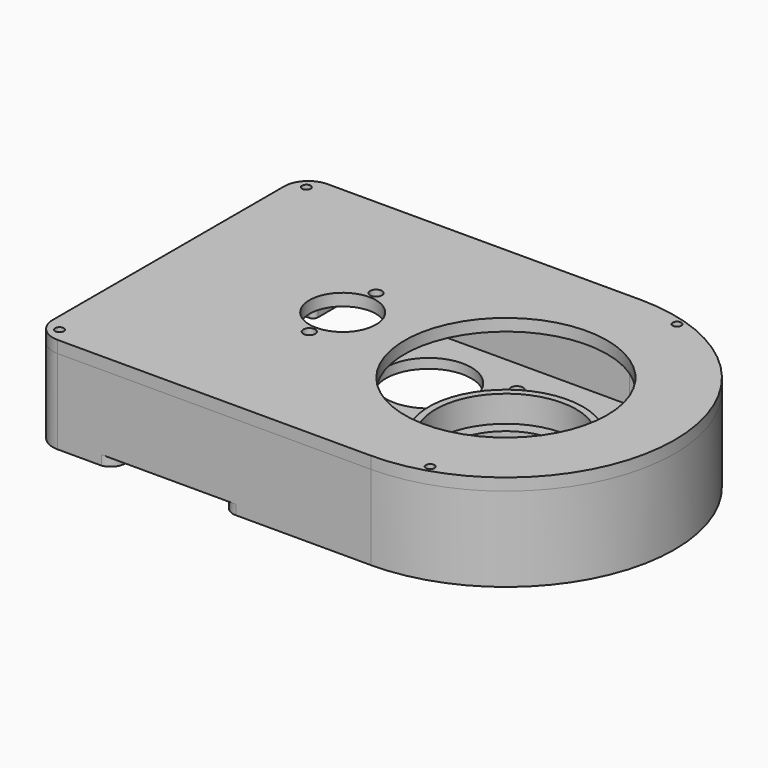
from build123d import *

# Parameters (mm, degrees)
F0_R      = 15.24
F1_DEPTH  = 22.225
F2_R      = 15.24
F3_DEPTH  = 19.685
F4_R      = 20.32
F4_R_2    = 15.24
F5_DEPTH  = 9.525
F6_R      = 18.5293
F6_R_2    = 15.24
F7_DEPTH  = 6.985
F8_R      = 1.1303
F9_DEPTH  = 7.62
F10_R     = 8.5
F10_R_2   = 1.75
F10_R_3   = 11.25
F10_R_4   = 1.575
F10_R_5   = 1.1303
F11_DEPTH = 25.4
F12_R     = 1.1303
F12_R_2   = 1.575
F12_R_3   = 8.75
F12_R_4   = 26.67
F13_DEPTH = 3.175
F14_R     = 2.159
F15_DEPTH = 3.81
F16_R     = 2.159
F17_DEPTH = 22.225
F20_R     = 1.1303
F21_DEPTH = 2.54
F22_R     = 1.1303
F22_R_2   = 2.8575
F23_DEPTH = 2.54


with BuildPart() as f1:
    # F0 (on Top) → F1 (new body)
    with BuildSketch(Plane.XY):
        with BuildLine():
            ThreePointArc((0, 6.35), (1.8598719395, 1.8598719395), (6.35, 0))
            Line((6.35, 0), (88.9, 0))
            ThreePointArc((88.9, 0), (133.35, 44.45), (88.9, 88.9))
            Line((88.9, 88.9), (6.35, 88.9))
            ThreePointArc((6.35, 88.9), (1.8598719395, 87.0401280605), (0, 82.55))
            Line((0, 82.55), (0, 6.35))
        make_face()
        with Locations((88.9, 44.45)):
            Circle(F0_R, mode=Mode.SUBTRACT)
        with BuildLine():
            ThreePointArc((0, 6.35), (1.8598719395, 1.8598719395), (6.35, 0))
            Line((6.35, 0), (88.9, 0))
            ThreePointArc((88.9, 0), (133.35, 44.45), (88.9, 88.9))
            Line((88.9, 88.9), (6.35, 88.9))
            ThreePointArc((6.35, 88.9), (1.8598719395, 87.0401280605), (0, 82.55))
            Line((0, 82.55), (0, 6.35))
        make_face()
        with Locations((88.9, 44.45)):
            Circle(F0_R, mode=Mode.SUBTRACT)
    extrude(amount=F1_DEPTH)

    # F2 (on face) → F3 (cut)
    with BuildSketch(Plane.XY.offset(22.225)):
        with BuildLine():
            Line((88.9, 85.09), (10.414, 85.09))
            ThreePointArc((10.414, 85.09), (5.744266817, 83.155733183), (3.81, 78.486))
            Line((3.81, 78.486), (3.81, 10.414))
            ThreePointArc((3.81, 10.414), (5.744266817, 5.744266817), (10.414, 3.81))
            Line((10.414, 3.81), (88.9, 3.81))
            ThreePointArc((88.9, 3.81), (129.54, 44.45), (88.9, 85.09))
        make_face()
        with Locations((88.9, 44.45)):
            Circle(F2_R, mode=Mode.SUBTRACT)
        with Locations((88.9, 44.45)):
            Circle(F2_R)
    extrude(amount=-F3_DEPTH, mode=Mode.SUBTRACT)

    # F4 (on face) → F5 (join)
    with BuildSketch(Plane.XY.offset(2.54)):
        with Locations((88.9, 44.45)):
            Circle(F4_R)
        with Locations((88.9, 44.45)):
            Circle(F4_R_2, mode=Mode.SUBTRACT)
        with Locations((88.9, 44.45)):
            Circle(F4_R)
        with Locations((88.9, 44.45)):
            Circle(F4_R_2, mode=Mode.SUBTRACT)
    extrude(amount=F5_DEPTH)

    # F6 (on face) → F7 (cut)
    with BuildSketch(Plane.XY.offset(12.065)):
        with Locations((88.9, 44.45)):
            Circle(F6_R)
        with Locations((88.9, 44.45)):
            Circle(F6_R_2, mode=Mode.SUBTRACT)
    extrude(amount=-F7_DEPTH, mode=Mode.SUBTRACT)

    # F8 (on face) → F9 (cut)
    with BuildSketch(Plane.XY.offset(22.225)):
        with Locations((3.8020693783, 85.0979306217)):
            Circle(F8_R)
        with Locations((3.8020693783, 3.8020693783)):
            Circle(F8_R)
        with Locations((101.4627529296, 3.8020693783)):
            Circle(F8_R)
        with Locations((101.4627529296, 85.0979306217)):
            Circle(F8_R)
    extrude(amount=-F9_DEPTH, mode=Mode.SUBTRACT)

    # F10 (on face) → F11 (cut)
    with BuildSketch(Plane.XY.offset(2.54)):
        with Locations((44.4867546653, 46.2572462039)):
            Circle(F10_R)
        with Locations((33.4867546653, 46.2572462039)):
            Circle(F10_R_2)
        with Locations((55.4867546653, 46.2572462039)):
            Circle(F10_R_2)
        with Locations((50.5529393695, 66.929)):
            Circle(F10_R_3)
        with Locations((66.5350447793, 76.0159305416)):
            Circle(F10_R_4)
        with Locations((34.5708339596, 57.8420694584)):
            Circle(F10_R_4)
        with Locations((13.6525, 8.89)):
            Circle(F10_R_5)
        with Locations((7.874, 80.0227)):
            Circle(F10_R_5)
        with Locations((52.3875, 8.255)):
            Circle(F10_R_5)
        with Locations((51.7525, 35.56)):
            Circle(F10_R_5)
    extrude(amount=-F11_DEPTH, mode=Mode.SUBTRACT)

    # F14 (on face) → F15 (cut, through all)
    with BuildSketch(Plane(origin=(0, 0, 0), x_dir=(0, -1, 0), z_dir=(-1, 0, 0))):
        with Locations((-68.2625, 7.3025)):
            Circle(F14_R)
        with Locations((-20.6375, 7.3025)):
            Circle(F14_R)
        with Locations((-60.325, 12.3825)):
            Circle(F14_R)
        with Locations((-28.575, 12.3825)):
            Circle(F14_R)
    extrude(amount=-F15_DEPTH, mode=Mode.SUBTRACT)

    # F16 (on face) → F17 (cut, through all)
    with BuildSketch(Plane(origin=(0, 0, 0), x_dir=(1, 0, 0), z_dir=(0, 0, -1))):
        with Locations((65.0875, -68.2625)):
            Circle(F16_R)
        with Locations((65.0875, -20.6375)):
            Circle(F16_R)
        with Locations((112.7125, -68.2625)):
            Circle(F16_R)
        with Locations((112.7125, -20.6375)):
            Circle(F16_R)
    extrude(amount=-F17_DEPTH, mode=Mode.SUBTRACT)

    # F20 (on face) → F21 (cut)
    with BuildSketch(Plane.XY):
        with BuildLine():
            ThreePointArc((21.1455, 3.7721056513), (20.2128548256, 1.274721178), (17.8715214133, 0))
            Line((17.8715214133, 0), (52.2168464959, 0))
            Line((52.2168464959, 0), (53.34, 0))
            ThreePointArc((53.34, 0), (50.6459231637, 1.1159231637), (49.53, 3.81))
            Line((49.53, 3.81), (49.53, 8.89))
            ThreePointArc((49.53, 8.89), (50.6459231637, 11.5840768363), (53.34, 12.7))
            ThreePointArc((53.34, 12.7), (56.0340768363, 13.8159231637), (57.15, 16.51))
            Line((57.15, 16.51), (57.15, 25.654))
            ThreePointArc((57.15, 25.654), (56.0340768363, 28.3480768363), (53.34, 29.464))
            Line((53.34, 29.464), (24.9555, 29.464))
            ThreePointArc((24.9555, 29.464), (22.2614231637, 28.3480768363), (21.1455, 25.654))
            Line((21.1455, 25.654), (21.1455, 3.7721056513))
        make_face()
        with BuildLine():
            ThreePointArc((0, 55.88), (1.1159231637, 58.5740768363), (3.81, 59.69))
            Line((3.81, 59.69), (8.89, 59.69))
            ThreePointArc((8.89, 59.69), (11.5840768363, 60.8059231637), (12.7, 63.5))
            Line((12.7, 63.5), (12.7, 67.31))
            ThreePointArc((12.7, 67.31), (13.8159231637, 70.0040768363), (16.51, 71.12))
            Line((16.51, 71.12), (24.13, 71.12))
            ThreePointArc((24.13, 71.12), (26.8240768363, 72.2359231637), (27.94, 74.93))
            Line((27.94, 74.93), (27.94, 85.09))
            ThreePointArc((27.94, 85.09), (29.0559231637, 87.7840768363), (31.75, 88.9))
            Line((31.75, 88.9), (7.62, 88.9))
            ThreePointArc((7.62, 88.9), (10.3140768363, 87.7840768363), (11.43, 85.09))
            Line((11.43, 85.09), (11.43, 79.375))
            ThreePointArc((11.43, 79.375), (11.0580256121, 78.4769743879), (10.16, 78.105))
            Line((10.16, 78.105), (0, 78.105))
            Line((0, 78.105), (0, 71.12))
            Line((0, 71.12), (0, 55.88))
        make_face()
        with BuildLine():
            Line((69.45268682, 21.8237897322), (65.4040288547, 15.6702277816))
            ThreePointArc((65.4040288547, 15.6702277816), (64.9286336769, 13.1881019881), (66.3476065033, 11.0968188538))
            Line((66.3476065033, 11.0968188538), (67.1963736689, 10.5383832724))
            ThreePointArc((67.1963736689, 10.5383832724), (69.6784994624, 10.0629880946), (71.7697825967, 11.481960921))
            Line((71.7697825967, 11.481960921), (75.818440562, 17.6355228716))
            ThreePointArc((75.818440562, 17.6355228716), (76.2938357398, 20.1176486651), (74.8748629135, 22.2089317994))
            Line((74.8748629135, 22.2089317994), (74.0260957479, 22.7673673808))
            ThreePointArc((74.0260957479, 22.7673673808), (71.5439699544, 23.2427625586), (69.45268682, 21.8237897322))
        make_face()
        with Locations((75.8465682842, 24.6100675041)):
            Circle(F20_R)
        with Locations((65.3759011325, 8.6956831491)):
            Circle(F20_R)
    extrude(amount=F21_DEPTH, mode=Mode.SUBTRACT)

    # F22 (on face) → F23 (join)
    with BuildSketch(Plane.XY.offset(2.54)):
        with BuildLine():
            Line((3.81, 78.486), (3.81, 78.105))
            Line((3.81, 78.105), (10.16, 78.105))
            ThreePointArc((10.16, 78.105), (11.0580256121, 78.4769743879), (11.43, 79.375))
            Line((11.43, 79.375), (11.43, 85.09))
            Line((11.43, 85.09), (10.414, 85.09))
            ThreePointArc((10.414, 85.09), (5.744266817, 83.155733183), (3.81, 78.486))
        make_face()
        with Locations((7.874, 80.0227)):
            Circle(F22_R, mode=Mode.SUBTRACT)
        with Locations((51.7525, 35.56)):
            Circle(F22_R_2)
        with Locations((51.7525, 35.56)):
            Circle(F22_R, mode=Mode.SUBTRACT)
        with BuildLine():
            ThreePointArc((49.53, 8.255), (52.3875, 5.3975), (55.245, 8.255))
            ThreePointArc((55.245, 8.255), (52.3875, 11.1125), (49.53, 8.255))
        make_face()
        with Locations((52.3875, 8.255)):
            Circle(F22_R, mode=Mode.SUBTRACT)
        with BuildLine():
            Line((55.245, 3.81), (55.245, 8.255))
            ThreePointArc((55.245, 8.255), (52.3875, 5.3975), (49.53, 8.255))
            Line((49.53, 8.255), (49.53, 3.81))
            Line((49.53, 3.81), (55.245, 3.81))
        make_face()
        with BuildLine():
            Line((16.51, 3.81), (16.51, 8.89))
            ThreePointArc((16.51, 8.89), (13.6525, 11.7475), (10.795, 8.89))
            Line((10.795, 8.89), (10.795, 3.81))
            Line((10.795, 3.81), (16.51, 3.81))
        make_face()
        with Locations((13.6525, 8.89)):
            Circle(F22_R, mode=Mode.SUBTRACT)
    extrude(amount=F23_DEPTH)


with BuildPart() as f13:
    # F12 (on face) → F13 (new body)
    with BuildSketch(Plane.XY.offset(22.225)):
        with BuildLine():
            Line((88.9, 88.9), (6.35, 88.9))
            ThreePointArc((6.35, 88.9), (1.8598719395, 87.0401280605), (0, 82.55))
            Line((0, 82.55), (0, 6.35))
            ThreePointArc((0, 6.35), (1.8598719395, 1.8598719395), (6.35, 0))
            Line((6.35, 0), (88.9, 0))
            ThreePointArc((88.9, 0), (133.35, 44.45), (88.9, 88.9))
        make_face()
        with Locations((3.8020693783, 3.8020693783)):
            Circle(F12_R, mode=Mode.SUBTRACT)
        with Locations((44.485400657, 35.2236587042)):
            Circle(F12_R_2, mode=Mode.SUBTRACT)
        with Locations((101.4627529296, 3.8020693783)):
            Circle(F12_R, mode=Mode.SUBTRACT)
        with Locations((44.485400657, 46.2236587042)):
            Circle(F12_R_3, mode=Mode.SUBTRACT)
        with Locations((44.485400657, 57.2236587042)):
            Circle(F12_R_2, mode=Mode.SUBTRACT)
        with Locations((3.8020693783, 85.0979306217)):
            Circle(F12_R, mode=Mode.SUBTRACT)
        with Locations((88.9, 44.45)):
            Circle(F12_R_4, mode=Mode.SUBTRACT)
        with Locations((101.4627529296, 85.0979306217)):
            Circle(F12_R, mode=Mode.SUBTRACT)
    extrude(amount=F13_DEPTH)


solid = Compound([f1.part, f13.part])
